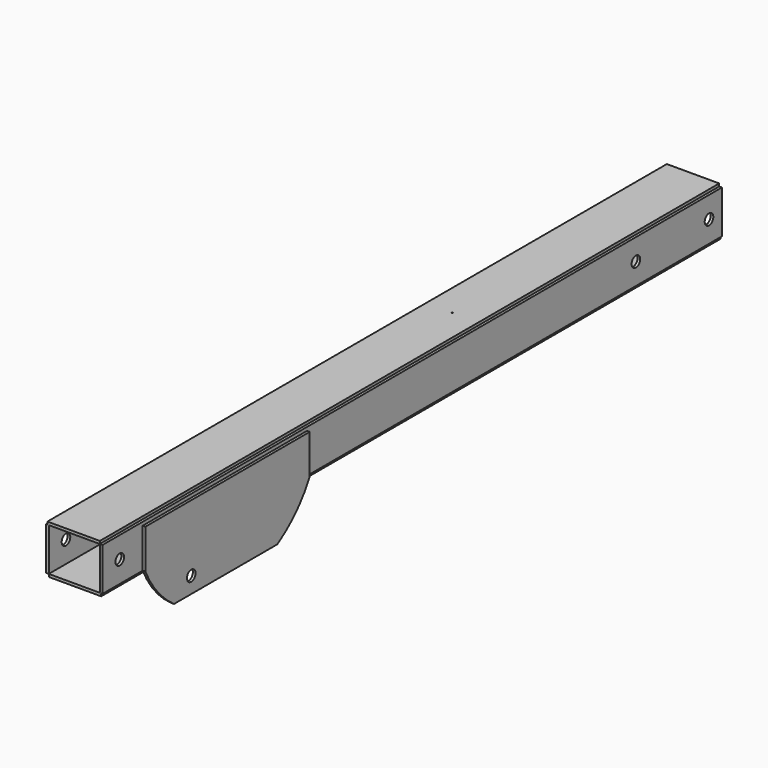
from build123d import *

# Parameters (mm, degrees)
F0_R          = 12.7
F1_DEPTH      = 6.35
F0_W          = 304.8
F0_H          = 101.6
F2_DEPTH      = 6.35
F2_DEPTH_BACK = 0.0254
F3_W          = 123.825
F3_H          = 1828.8
F4_DEPTH      = 6.35
F4_DEPTH_BACK = 0.0254
F5_R          = 12.7
F6_DEPTH      = 3.175
F6_DEPTH_BACK = 3.175
F7_W          = 123.825
F7_H          = 1828.8
F8_DEPTH      = 6.35
F8_DEPTH_BACK = 0.0254
F9_W          = 304.768414
F9_H          = 101.895114
F9_R          = 12.7
F10_DEPTH     = 6.35
F12_D         = 3.175


with BuildPart() as f1:
    # F0 (on Right) → F1 (new body)
    with BuildSketch(Plane.YZ):
        Polygon((958.305541, -212.746999), (-870.494459, -212.746999), (-870.494459, -314.346999), (-752.001264, -314.346999), (-752.001264, -220.903009), (-266.81143, -220.903009), (-266.81143, -314.346999), (-266.760536, -314.346999), (958.305541, -314.346999), align=None)
        with Locations((-819.694459, -263.546999)):
            Circle(F0_R, mode=Mode.SUBTRACT)
        with Locations((704.305541, -263.546999)):
            Circle(F0_R, mode=Mode.SUBTRACT)
        with Locations((920.205541, -263.546999)):
            Circle(F0_R, mode=Mode.SUBTRACT)
        Polygon((-752.001264, -220.903009), (-752.001264, -314.346999), (-667.294459, -314.346999), (-362.494459, -314.346999), (-266.81143, -314.346999), (-266.81143, -220.903009), align=None)
    extrude(amount=-F1_DEPTH)

    # F0 (on Right) → F2 (join, two sides)
    with BuildSketch(Plane.YZ) as f2_sk:
        Polygon((-752.001264, -220.903009), (-752.001264, -314.346999), (-667.294459, -314.346999), (-362.494459, -314.346999), (-266.81143, -314.346999), (-266.81143, -220.903009), align=None)
        with BuildLine():
            Line((-667.294459, -314.346999), (-752.001264, -314.346999))
            ThreePointArc((-752.001264, -314.346999), (-716.377908, -370.75803), (-667.294459, -415.946999))
            Line((-667.294459, -415.946999), (-667.294459, -314.346999))
        make_face()
        with Locations((-514.894459, -365.146999)):
            Rectangle(F0_W, F0_H)
        with Locations((-616.494459, -377.846999)):
            Circle(F0_R, mode=Mode.SUBTRACT)
        with BuildLine():
            ThreePointArc((-362.494459, -415.946999), (-307.510614, -371.852975), (-266.760536, -314.346999))
            Line((-266.760536, -314.346999), (-266.81143, -314.346999))
            Line((-266.81143, -314.346999), (-362.494459, -314.346999))
            Line((-362.494459, -314.346999), (-362.494459, -415.946999))
        make_face()
    extrude(amount=F2_DEPTH)
    extrude(f2_sk.sketch, amount=-F2_DEPTH_BACK)

    # F3 (on face) → F4 (join, two sides)
    with BuildSketch(Plane.XY.offset(-212.746999)) as f4_sk:
        with Locations((-68.2625, 43.905541)):
            Rectangle(F3_W, F3_H)
    extrude(amount=F4_DEPTH)
    extrude(f4_sk.sketch, amount=-F4_DEPTH_BACK)

    # F5 (on face) → F6 (join, two sides)
    with BuildSketch(Plane(origin=(-130.175, 0, 0), x_dir=(0, -1, 0), z_dir=(-1, 0, 0))) as f6_sk:
        Polygon((870.494459, -314.260572), (870.494459, -212.772399), (-958.305541, -212.772399), (-958.419502, -212.772399), (-958.419502, -314.260572), align=None)
        with Locations((-920.319502, -263.516486)):
            Circle(F5_R, mode=Mode.SUBTRACT)
        with Locations((-704.419502, -263.460572)):
            Circle(F5_R, mode=Mode.SUBTRACT)
        with Locations((819.694459, -263.516486)):
            Circle(F5_R, mode=Mode.SUBTRACT)
    extrude(amount=F6_DEPTH)
    extrude(f6_sk.sketch, amount=-F6_DEPTH_BACK)

    # F7 (on face) → F8 (join, two sides)
    with BuildSketch(Plane(origin=(0, 0, -314.260572), x_dir=(1, 0, 0), z_dir=(0, 0, -1))) as f8_sk:
        with Locations((-65.0875, -43.905541)):
            Rectangle(F7_W, F7_H)
    extrude(amount=F8_DEPTH)
    extrude(f8_sk.sketch, amount=-F8_DEPTH_BACK)

    # F9 (on face) → F10 (join)
    with BuildSketch(Plane(origin=(-133.35, 0, 0), x_dir=(0, -1, 0), z_dir=(-1, 0, 0))):
        Polygon((752.8369, -221.051976), (266.6637, -221.051976), (266.6637, -314.260572), (362.727041, -314.260572), (667.495455, -314.260572), (752.8369, -314.260572), align=None)
        with BuildLine():
            Line((362.727041, -314.260572), (266.6637, -314.260572))
            ThreePointArc((266.6637, -314.260572), (307.534376, -371.959278), (362.727041, -416.155686))
            Line((362.727041, -416.155686), (362.727041, -314.260572))
        make_face()
        with Locations((515.111248, -365.208129)):
            Rectangle(F9_W, F9_H)
        with Locations((616.727041, -377.797782)):
            Circle(F9_R, mode=Mode.SUBTRACT)
        with BuildLine():
            ThreePointArc((667.495455, -416.155686), (716.949255, -370.889243), (752.8369, -314.260572))
            Line((752.8369, -314.260572), (667.495455, -314.260572))
            Line((667.495455, -314.260572), (667.495455, -416.155686))
        make_face()
    extrude(amount=F10_DEPTH)

    # F12 (through all)
    with Locations(Plane.XY.offset(-206.396999)):
        with Locations((-68.2625, 247.105541)):
            Hole(F12_D / 2)


solid = f1.part
